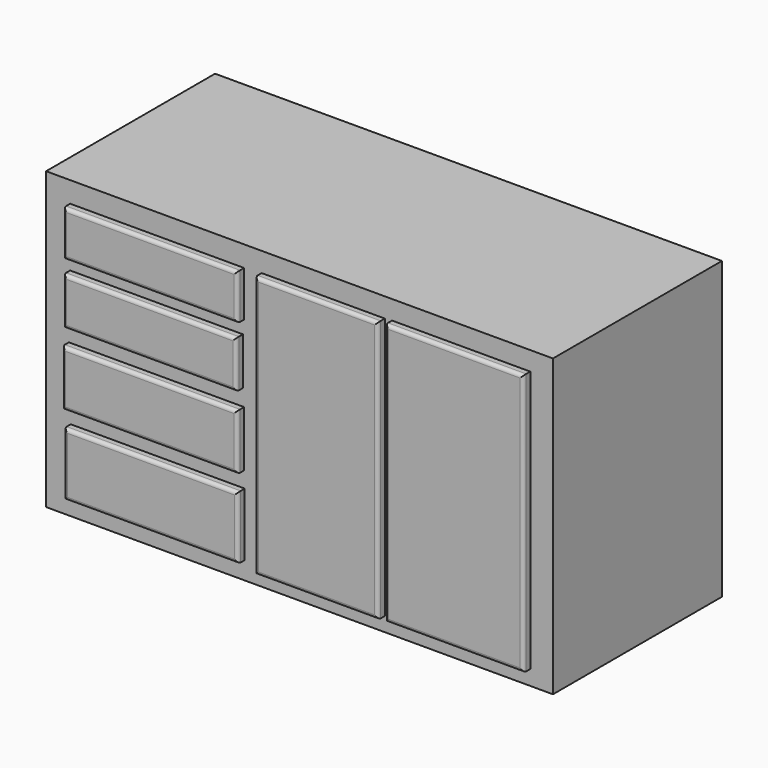
from build123d import *

# Parameters (mm, degrees)
F0_W     = 1524
F0_H     = 635
F1_DEPTH = 889
F2_W     = 415.591598
F2_H     = 787.436507
F2_W_2   = 370.022237
F2_H_2   = 787.436578
F2_W_3   = 523.134932
F2_H_3   = 136.707724
F2_W_4   = 519.489392
F2_H_4   = 142.176032
F2_W_5   = 526.780472
F2_H_5   = 167.694807
F2_H_6   = 189.568065
F3_DEPTH = 25.4
F4_R     = 10.16


with BuildPart() as f1:
    # F0 (on Top) → F1 (new body)
    with BuildSketch(Plane.XY):
        with Locations((762, 317.5)):
            Rectangle(F0_W, F0_H)
    extrude(amount=F1_DEPTH)

    # F2 (on face) → F3 (join)
    with BuildSketch(Plane.XZ):
        with Locations((1247.946322, 438.298452)):
            Rectangle(F2_W, F2_H)
        with Locations((833.266169, 436.475707)):
            Rectangle(F2_W_2, F2_H_2)
        with Locations((333.827265, 758.194536)):
            Rectangle(F2_W_3, F2_H_3)
        with Locations((332.004495, 578.651726)):
            Rectangle(F2_W_4, F2_H_4)
        with Locations((332.004495, 374.501526)):
            Rectangle(F2_W_5, F2_H_5)
        with Locations((335.650034, 148.478064)):
            Rectangle(F2_W_3, F2_H_6)
    extrude(amount=F3_DEPTH)

    # F4
    f4_edges = [f1.edges().sort_by_distance(p)[0] for p in [
        (595.394731, -25.4, 758.194536),
        (333.827265, -25.4, 826.548398),
        (72.259799, -25.4, 758.194536),
        (333.827265, -25.4, 689.840674),
        (833.266169, -25.4, 42.757418),
        (1018.277287, -25.4, 436.475707),
        (833.266169, -25.4, 830.193996),
        (648.25505, -25.4, 436.475707),
        (1455.742121, -25.4, 438.298453),
        (1247.946322, -25.4, 832.016706),
        (1040.150523, -25.4, 438.298453),
        (1247.946322, -25.4, 44.580199),
        (591.749191, -25.4, 578.651726),
        (332.004495, -25.4, 649.739742),
        (72.259799, -25.4, 578.651726),
        (332.004495, -25.4, 507.56371),
        (595.394731, -25.4, 374.501526),
        (332.004495, -25.4, 458.34893),
        (68.614259, -25.4, 374.501526),
        (332.004495, -25.4, 290.654123),
        (597.2175, -25.4, 148.478065),
        (335.650034, -25.4, 243.262097),
        (74.082568, -25.4, 148.478065),
        (335.650034, -25.4, 53.694032),
    ]]
    fillet(f4_edges, radius=F4_R)


solid = f1.part
